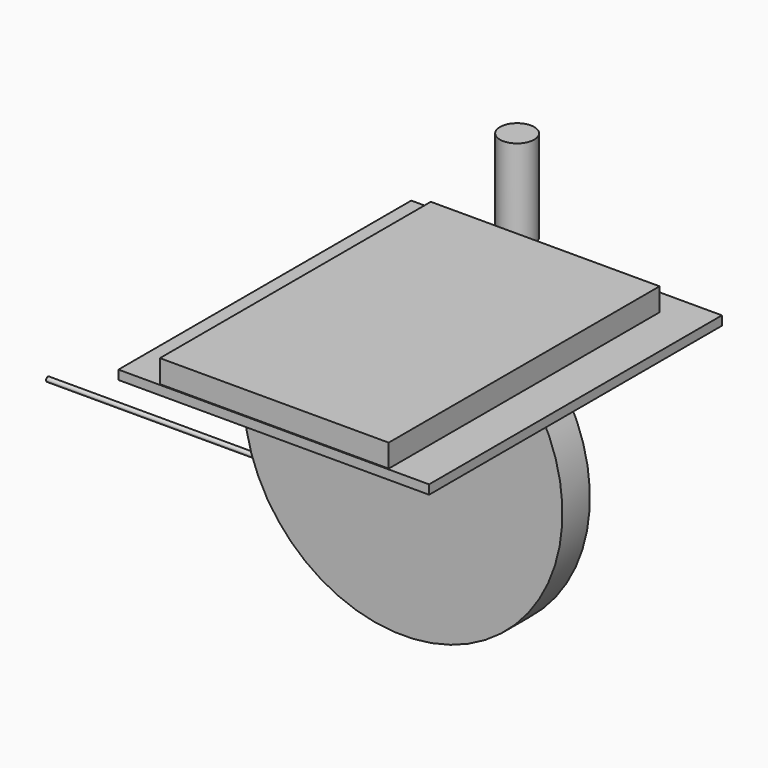
from build123d import *

# Parameters (mm, degrees)
F1_DEPTH = 9.525
F2_W     = 86.231357418
F2_H     = 101.6
F2_W_2   = 76.1702060699
F2_H_2   = 9.525
F3_DEPTH = 2.54
F4_W     = 63.5
F4_H     = 93.98
F5_DEPTH = 6.35
F6_R     = 4.7625
F7_DEPTH = 25.4
F8_R     = 0.6314423054
F9_DEPTH = 96.266


with BuildPart() as f1:
    # F0 (on Front) → F1 (new body)
    with BuildSketch(Plane.XZ):
        with BuildLine():
            Line((76.1702060699, 0), (0, 0))
            ThreePointArc((0, 0), (38.085103035, -66.682218169), (76.1702060699, 0))
        make_face()
    extrude(amount=F1_DEPTH)


with BuildPart() as f3:
    # F2 (on face) → F3 (new body)
    with BuildSketch(Plane.XY):
        with Locations((38.0962812342, -3.637123239)):
            Rectangle(F2_W, F2_H)
        with Locations((38.085103035, -4.7625)):
            Rectangle(F2_W_2, F2_H_2, mode=Mode.SUBTRACT)
        with Locations((38.085103035, -4.7625)):
            Rectangle(F2_W_2, F2_H_2)
    extrude(amount=F3_DEPTH)


with BuildPart() as f5:
    # F4 (on face) → F5 (new body)
    with BuildSketch(Plane.XY.offset(2.54)):
        with Locations((38.0110456608, -7.1483870876)):
            Rectangle(F4_W, F4_H)
    extrude(amount=F5_DEPTH)


with BuildPart() as f7:
    # F6 (on Top) → F7 (new body)
    with BuildSketch(Plane.XY):
        with Locations((20.6025417734, 51.8628093516)):
            Circle(F6_R)
    extrude(amount=F7_DEPTH)


with BuildPart() as f9:
    # F8 (on Right) → F9 (new body)
    with BuildSketch(Plane.YZ):
        with Locations((35.1508595049, -65.8903047442)):
            Circle(F8_R)
    extrude(amount=-F9_DEPTH)


solid = Compound([f1.part, f3.part, f5.part, f7.part, f9.part])
